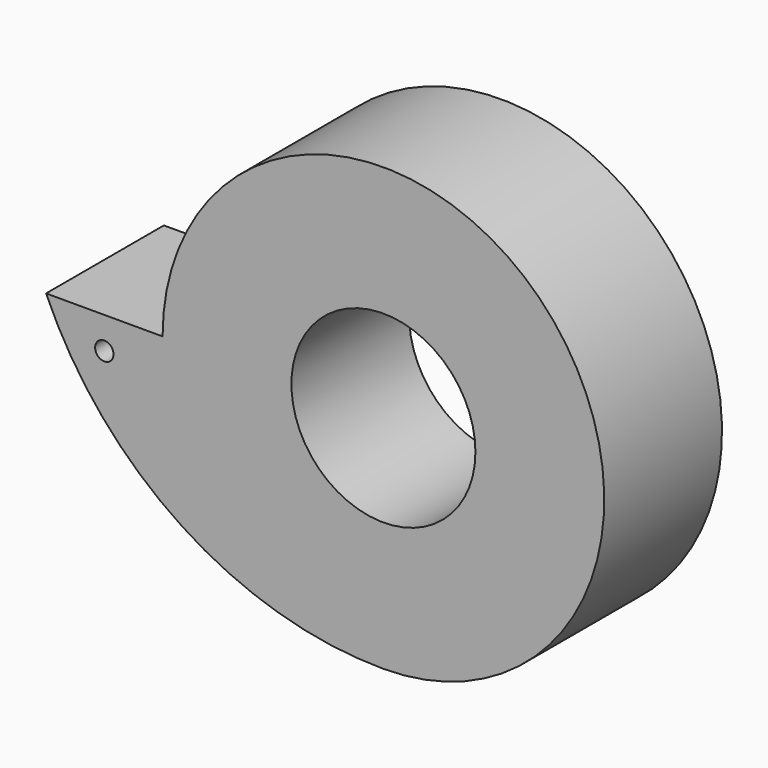
from build123d import *

# Parameters (mm, degrees)
F0_R           = 12.7
F0_R_2         = 7.9375
F1_DEPTH       = 12.7
F3_D           = 1.5875
F3_DEPTH       = 25.4
F3_CBORE_D     = 1.5875
F3_CBORE_DEPTH = 6.35
F3_TIP         = 0.4769331164


with BuildPart() as f1:
    # F0 (on Front) → F1 (new body)
    with BuildSketch(Plane.XZ):
        with BuildLine():
            ThreePointArc((0, -19.05), (13.4703841816, -13.4703841816), (19.05, 0))
            ThreePointArc((19.05, 0), (0, 19.05), (-19.05, 0))
            ThreePointArc((-19.05, 0), (-13.4703841816, -13.4703841816), (0, -19.05))
        make_face()
        Circle(F0_R, mode=Mode.SUBTRACT)
        Circle(F0_R)
        Circle(F0_R_2, mode=Mode.SUBTRACT)
        with BuildLine():
            ThreePointArc((0, -19.05), (-13.4703841816, -13.4703841816), (-19.05, 0))
            Line((-19.05, 0), (-29.099355663, 0))
            ThreePointArc((-29.099355663, 0), (-17.3901912008, -13.8639558425), (0, -19.05))
        make_face()
    extrude(amount=F1_DEPTH)

    # F3
    with Locations(Plane.XZ.offset(12.7)):
        with Locations((-24.0746778315, -2.738931682)):
            CounterBoreHole(F3_D / 2, F3_CBORE_D / 2, F3_CBORE_DEPTH, depth=F3_DEPTH)
            with Locations((0, 0, -(F3_DEPTH + F3_TIP / 2))):  # 118° drill point
                Cone(0, F3_D / 2, F3_TIP, mode=Mode.SUBTRACT)


solid = f1.part
